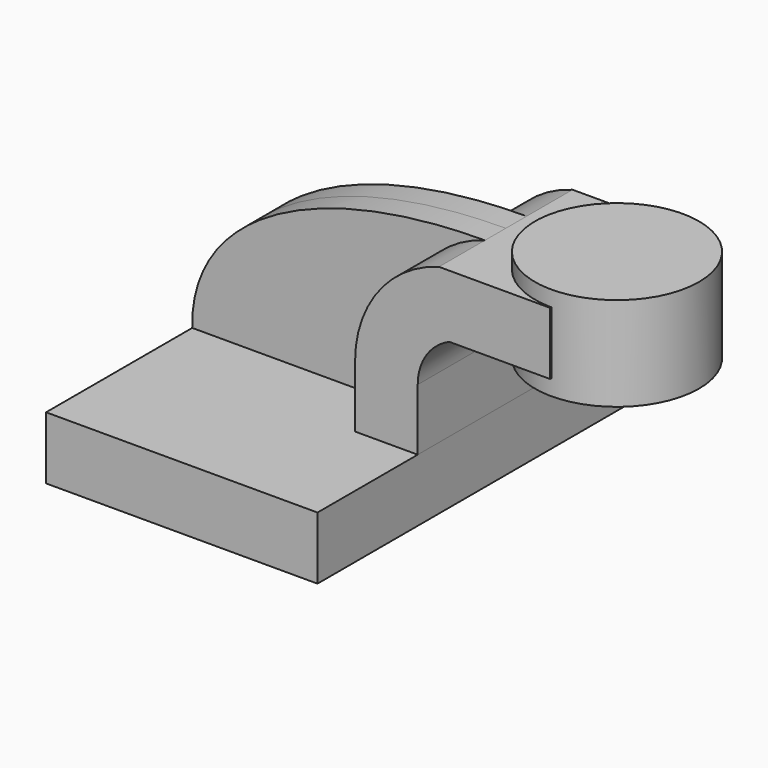
from build123d import *

# Parameters (mm, degrees)
F1_DEPTH = 63.5
F0_W     = 25.8340687361
F0_H     = 19.0500002888
F2_DEPTH = 25.4
F3_DEPTH = 7.9375


with BuildPart() as f1:
    # F0 (on Front) → F1 (new body, symmetric)
    with BuildSketch(Plane.XZ):
        Polygon((-41.275, -9.525), (41.275, -9.525), (41.275, 9.525), (22.2249997112, 9.525), (-41.275, 9.525), align=None)
    extrude(amount=F1_DEPTH, both=True)


with BuildPart() as f2:
    # F0 (on Front) → F2 (new body, symmetric)
    with BuildSketch(Plane.XZ):
        with Locations((68.6463132568, 52.4002001444)):
            Rectangle(F0_W, F0_H)
        with BuildLine():
            Line((22.2249997112, 9.525), (41.275, 9.525))
            Line((41.275, 9.525), (41.275, 28.2908508954))
            ThreePointArc((41.275, 28.2908508954), (43.8919604664, 37.0224036053), (50.8800409734, 42.8752))
            Line((50.8800409734, 42.8752), (55.7292788887, 42.8752))
            Line((55.7292788887, 42.8752), (55.7292788887, 61.9252002888))
            Line((55.7292788887, 61.9252002888), (47.7432903704, 61.9252002888))
            ThreePointArc((47.7432903704, 61.9252002888), (29.3265837675, 49.4004021535), (22.2249997112, 28.2908508954))
            Line((22.2249997112, 28.2908508954), (22.2249997112, 9.525))
        make_face()
    extrude(amount=F2_DEPTH, both=True)


with BuildPart() as f3:
    # F0 (on Front) → F3 (new body, symmetric)
    with BuildSketch(Plane.XZ):
        with BuildLine():
            add(Edge.make_bspline(
                [(-41.275, 9.525), (-42.008638382, 41.4867997169), (-4.4356905855, 61.8388131261), (47.7432903704, 61.9252002888)],
                knots=[0, 0, 0, 0, 103.2958712185, 103.2958712185, 103.2958712185, 103.2958712185], degree=3))
            Line((-41.275, 9.525), (22.2249997112, 9.525))
            Line((22.2249997112, 9.525), (22.2249997112, 28.2908508954))
            ThreePointArc((22.2249997112, 28.2908508954), (29.3265837675, 49.4004021535), (47.7432903704, 61.9252002888))
        make_face()
    extrude(amount=F3_DEPTH, both=True)


with BuildPart() as f4:
    # F0 (on Front) → F4 (revolve)
    with BuildSketch(Plane.XZ):
        Polygon((81.5633476248, 66.675), (81.5633476248, 61.9252002888), (81.5633476248, 42.8752), (81.5633476248, 38.1), (106.5292788887, 38.1), (106.5292788887, 66.675), align=None)
    revolve(axis=Axis((81.5633476248, 0, 52.3875), (0, 0, -1)))


solid = Compound([f1.part, f2.part, f3.part, f4.part])
